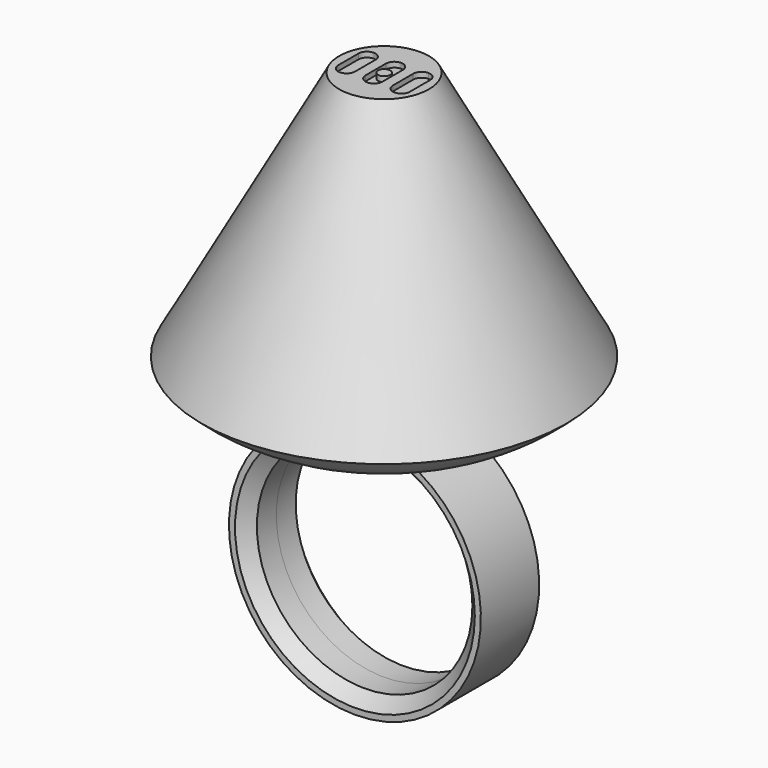
from build123d import *

# Parameters (mm, degrees)
F0_R          = 8.875
F3_DEPTH      = 3
F3_DEPTH_BACK = 3
F4_SIZE       = 1
F5_R          = 0.5
F6_DEPTH      = 0.43


with BuildPart() as f2:
    # F0 (on Front) → F2 (revolve)
    with BuildSketch(Plane.XZ):
        with BuildLine():
            ThreePointArc((0, 10.375), (1.4661242569, 10.2708862647), (2.9028232275, 9.9606346339))
            ThreePointArc((2.9028232275, 9.9606346339), (9.4069705736, 10.9259285589), (15, 14.3833476682))
            Line((15, 14.3833476682), (3.7, 34.9606346339))
            Line((3.7, 34.9606346339), (0, 34.9606346339))
            Line((0, 34.9606346339), (0, 10.375))
        make_face()
    revolve(axis=Axis((0, 0, 0), (0, 0, 1)))

    # F0 (on Front) → F3 (join, two sides)
    with BuildSketch(Plane.XZ) as f3_sk:
        with BuildLine():
            ThreePointArc((0, 10.375), (-7.3362328548, -7.3362328548), (10.375, 0))
            ThreePointArc((10.375, 0), (8.2993197307, 6.2259069225), (2.9028232275, 9.9606346339))
            Line((2.9028232275, 9.9606346339), (0, 9.9606346339))
            Line((0, 9.9606346339), (0, 10.375))
        make_face()
        Circle(F0_R, mode=Mode.SUBTRACT)
        with BuildLine():
            Line((0, 9.9606346339), (2.9028232275, 9.9606346339))
            ThreePointArc((2.9028232275, 9.9606346339), (1.4661242569, 10.2708862647), (0, 10.375))
            Line((0, 10.375), (0, 9.9606346339))
        make_face()
    extrude(amount=F3_DEPTH)
    extrude(f3_sk.sketch, amount=-F3_DEPTH_BACK)

    # F4
    f4_edges = [f2.edges().sort_by_distance(p)[0] for p in [
        (-8.875, -3, 0),
        (-8.875, 3, 0),
    ]]
    chamfer(f4_edges, length=F4_SIZE)

    # F5 (on face) → F6 (cut)
    with BuildSketch(Plane.XY.offset(34.9606346339)):
        with BuildLine():
            ThreePointArc((0.0041443855, 1.7524251654), (-0.4908303614, 1.5473999123), (-0.6958556145, 1.0524251654))
            Line((-0.6958556145, 1.0524251654), (-0.6958556145, -1.0399995122))
            ThreePointArc((-0.6958556145, -1.0399995122), (-0.4908303614, -1.534974259), (0.0041443855, -1.7399995122))
            ThreePointArc((0.0041443855, -1.7399995122), (0.4991191323, -1.534974259), (0.7041443855, -1.0399995122))
            Line((0.7041443855, -1.0399995122), (0.7041443855, 1.0524251654))
            ThreePointArc((0.7041443855, 1.0524251654), (0.4991191323, 1.5473999123), (0.0041443855, 1.7524251654))
        make_face()
        with Locations((0.0021327037, 0.0014704808)):
            Circle(F5_R, mode=Mode.SUBTRACT)
        with BuildLine():
            ThreePointArc((-2.2493049037, 1.7524251654), (-2.7442796505, 1.5473999123), (-2.9493049037, 1.0524251654))
            Line((-2.9493049037, 1.0524251654), (-2.9493049037, -1.0399995122))
            ThreePointArc((-2.9493049037, -1.0399995122), (-2.7442796505, -1.534974259), (-2.2493049037, -1.7399995122))
            ThreePointArc((-2.2493049037, -1.7399995122), (-1.7543301568, -1.534974259), (-1.5493049037, -1.0399995122))
            Line((-1.5493049037, -1.0399995122), (-1.5493049037, 1.0524251654))
            ThreePointArc((-1.5493049037, 1.0524251654), (-1.7543301568, 1.5473999123), (-2.2493049037, 1.7524251654))
        make_face()
        with BuildLine():
            ThreePointArc((2.2571443855, 1.7524251654), (1.7621696386, 1.5473999123), (1.5571443855, 1.0524251654))
            Line((1.5571443855, 1.0524251654), (1.5571443855, -1.0399995122))
            ThreePointArc((1.5571443855, -1.0399995122), (1.7621696386, -1.534974259), (2.2571443855, -1.7399995122))
            ThreePointArc((2.2571443855, -1.7399995122), (2.7521191323, -1.534974259), (2.9571443855, -1.0399995122))
            Line((2.9571443855, -1.0399995122), (2.9571443855, 1.0524251654))
            ThreePointArc((2.9571443855, 1.0524251654), (2.7521191323, 1.5473999123), (2.2571443855, 1.7524251654))
        make_face()
    extrude(amount=-F6_DEPTH, mode=Mode.SUBTRACT)


solid = f2.part
